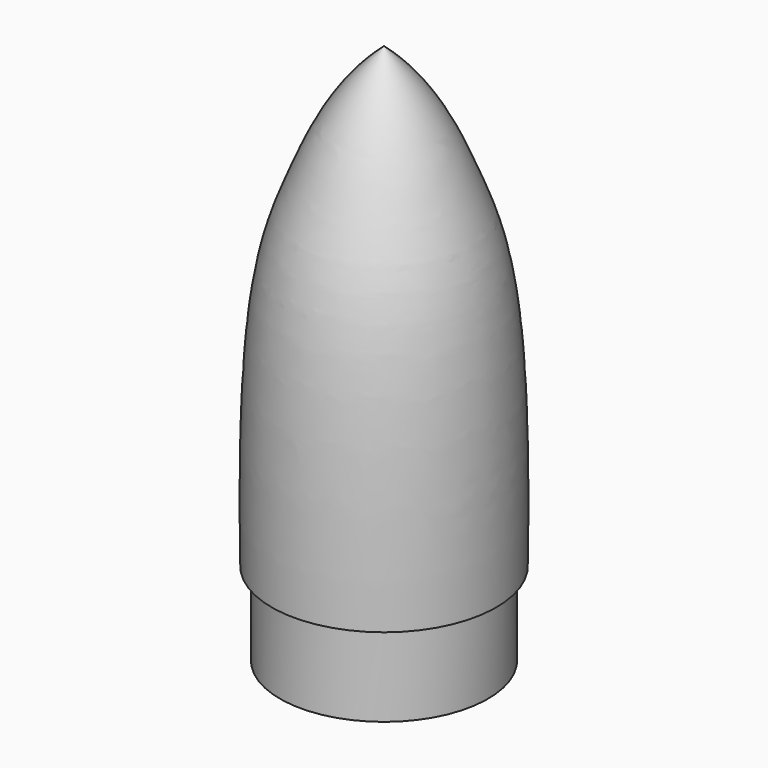
from build123d import *


with BuildPart() as f1:
    # F0 (on Right) → F1 (revolve)
    with BuildSketch(Plane.YZ):
        with BuildLine():
            Line((0, 65), (0, 0))
            Line((0, 0), (12.5, 0))
            Line((12.5, 0), (12.5, 10))
            Line((12.5, 10), (13.5, 10))
            add(Edge.make_bspline(
                [(0, 65), (5.0390125889, 60.673723936), (10.7528934838, 47.4494893537), (13.8926335236, 38.4243249201), (13.5, 10)],
                knots=[0, 0, 0, 0, 0.3885731607, 1, 1, 1, 1], degree=3))
        make_face()
    revolve(axis=Axis((0, 0, 32.5), (0, 0, 1)))


solid = f1.part
